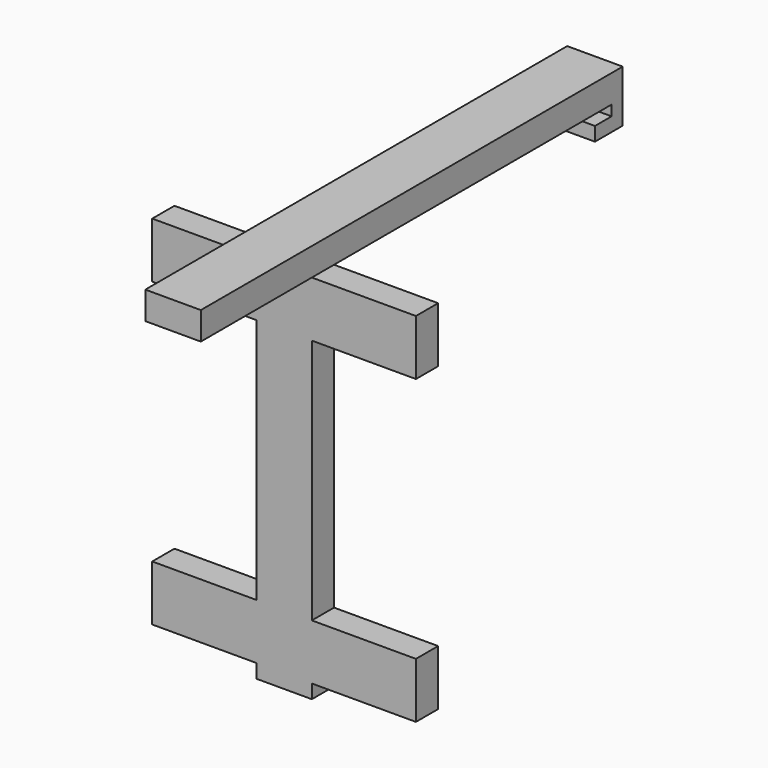
from build123d import *

# Parameters (mm, degrees)
F0_W           = 8
F0_H           = 53.5
F1_DEPTH       = 4
F2_W           = 8
F2_H           = 52
F2_H_2         = 4
F3_DEPTH       = 4
F5_DEPTH       = 8
F7_DEPTH       = 8
F9_W           = 8
F9_H           = 4
F10_DEPTH      = 20
F11_W          = 4
F11_H          = 8
F12_DEPTH      = 15
F12_DEPTH_BACK = 23


with BuildPart() as f1:
    # F0 (on Front) → F1 (new body)
    with BuildSketch(Plane.XZ):
        with Locations((4, 26.75)):
            Rectangle(F0_W, F0_H)
    extrude(amount=F1_DEPTH)

    # F2 (on face) → F3 (join)
    with BuildSketch(Plane.XY.offset(53.5)):
        with Locations((4, 26)):
            Rectangle(F2_W, F2_H)
        with Locations((4, -2)):
            Rectangle(F2_W, F2_H_2)
    extrude(amount=F3_DEPTH)

    # F4 (on face) → F5 (join)
    with BuildSketch(Plane.YZ.offset(8)):
        Polygon((52, 50), (52, 53.5), (50, 53.5), (50, 52), (47, 52), (47, 50), (50, 50), align=None)
    extrude(amount=-F5_DEPTH)


with BuildPart() as f7:
    # F6 (on face) → F7 (new body)
    with BuildSketch(Plane.YZ.offset(8)):
        Polygon((0, 2), (0, 0), (3.5, 0), (3.5, 2), (3.5, 3.5), (1.5, 3.5), (1.5, 2), align=None)
    extrude(amount=-F7_DEPTH)


with BuildPart() as f1_1:
    add(f1.part)

    # F8: union F7
    add(f7.part)

    # F9 (on face) → F10 (join)
    with BuildSketch(Plane.XZ.offset(4)):
        with Locations((4, 55.5)):
            Rectangle(F9_W, F9_H)
    extrude(amount=F10_DEPTH)

    # F11 (on face) → F12 (join, two sides)
    with BuildSketch(Plane.YZ.offset(8)) as f12_sk:
        with Locations((-2, 49.5)):
            Rectangle(F11_W, F11_H)
        with Locations((-2, 6)):
            Rectangle(F11_W, F11_H)
    extrude(amount=F12_DEPTH)
    extrude(f12_sk.sketch, amount=-F12_DEPTH_BACK)


solid = f1_1.part
